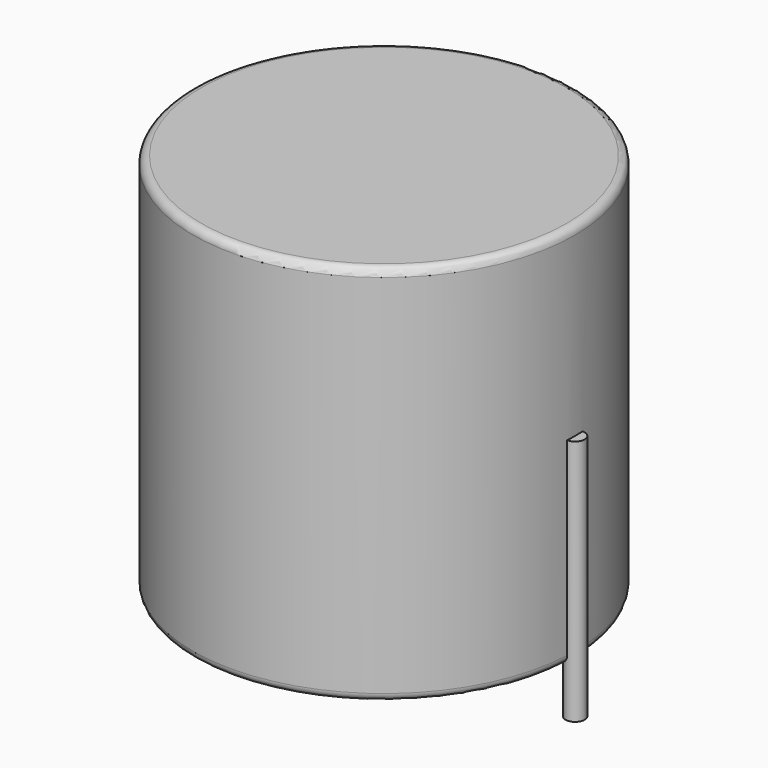
from build123d import *

# Parameters (mm, degrees)
SKETCH001_R       = 0.6
PAD001_DEPTH      = 12
PAD001_DEPTH_BACK = 3.5
SKETCH_R          = 12
PAD_DEPTH         = 24
FILLET_R          = 0.5


with BuildPart() as pad001:
    # Sketch001 → Pad001 (new body, two sides)
    with BuildSketch(Plane.XY.offset(0.5)) as pad001_sk:
        Circle(SKETCH001_R)
        with Locations((24, 0)):
            Circle(SKETCH001_R)
    extrude(amount=PAD001_DEPTH)
    extrude(pad001_sk.sketch, amount=-PAD001_DEPTH_BACK)


with BuildPart() as l_radial_d24_0mm_p24_00mm:
    # Sketch → Pad (new body)
    with BuildSketch(Plane.XY.offset(0.1)):
        with Locations((12, 0)):
            Circle(SKETCH_R)
    extrude(amount=PAD_DEPTH)

    # Fillet
    fillet_edges = [l_radial_d24_0mm_p24_00mm.edges().sort_by_distance(p)[0] for p in [
        (0, 0, 0.1),
        (0, 0, 24.1),
    ]]
    fillet(fillet_edges, radius=FILLET_R)

    add(pad001.part)


solid = l_radial_d24_0mm_p24_00mm.part
